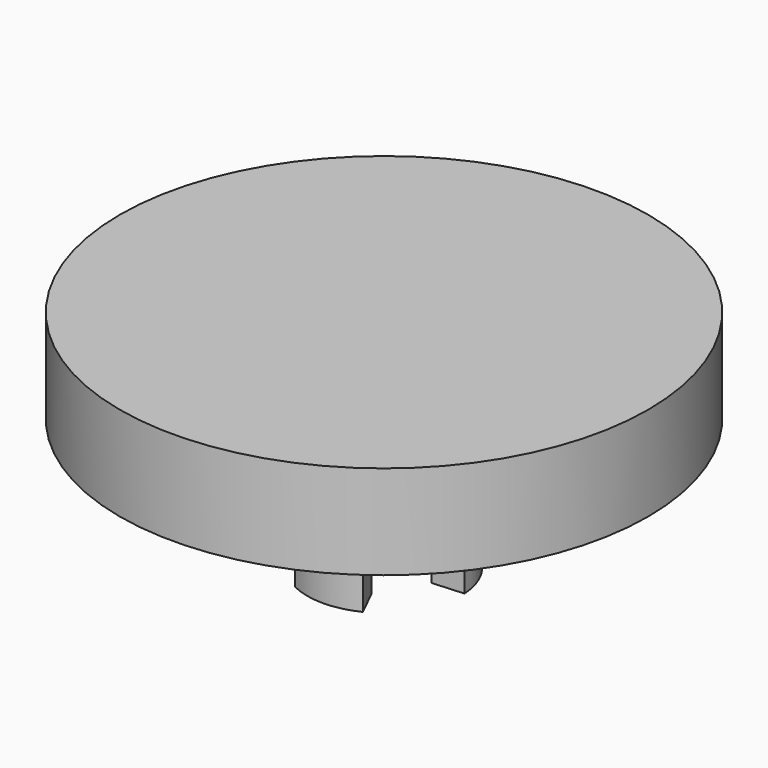
from build123d import *

# Parameters (mm, degrees)
F1_DEPTH = 6.604
F2_R     = 13.335
F3_DEPTH = 4.7498
F4_R     = 2.286
F5_DEPTH = 6.604


with BuildPart() as f1:
    # F0 (on Top) → F1 (new body)
    with BuildSketch(Plane.XY):
        with BuildLine():
            ThreePointArc((-1.712611, -3.474329), (0, -3.8735), (1.712611, -3.474329))
            Line((1.712611, -3.474329), (0.898419, -1.822599))
            ThreePointArc((0.898419, -1.822599), (0, -2.032), (-0.898419, -1.822599))
            Line((-0.898419, -1.822599), (-1.712611, -3.474329))
        make_face()
        with BuildLine():
            Line((-1.129208, 1.689353), (-2.152552, 3.220329))
            ThreePointArc((-2.152552, 3.220329), (-3.354549, 1.93675), (-3.865163, 0.254))
            Line((-3.865163, 0.254), (-2.027627, 0.133246))
            ThreePointArc((-2.027627, 0.133246), (-1.759764, 1.016), (-1.129208, 1.689353))
        make_face()
        with BuildLine():
            Line((2.027627, 0.133246), (3.865163, 0.254))
            ThreePointArc((3.865163, 0.254), (3.354549, 1.93675), (2.152552, 3.220329))
            Line((2.152552, 3.220329), (1.129208, 1.689353))
            ThreePointArc((1.129208, 1.689353), (1.759764, 1.016), (2.027627, 0.133246))
        make_face()
        with BuildLine():
            ThreePointArc((2.027627, -0.133246), (2.030906, -0.066659), (2.032, 0))
            ThreePointArc((2.032, 0), (2.030906, 0.066659), (2.027627, 0.133246))
            ThreePointArc((2.027627, 0.133246), (1.759764, 1.016), (1.129208, 1.689353))
            ThreePointArc((1.129208, 1.689353), (1.016, 1.759764), (0.898419, 1.822599))
            ThreePointArc((0.898419, 1.822599), (0, 2.032), (-0.898419, 1.822599))
            ThreePointArc((-0.898419, 1.822599), (-1.016, 1.759764), (-1.129208, 1.689353))
            ThreePointArc((-1.129208, 1.689353), (-1.759764, 1.016), (-2.027627, 0.133246))
            ThreePointArc((-2.027627, 0.133246), (-2.032, 0), (-2.027627, -0.133246))
            ThreePointArc((-2.027627, -0.133246), (-1.759764, -1.016), (-1.129208, -1.689353))
            ThreePointArc((-1.129208, -1.689353), (-1.016, -1.759764), (-0.898419, -1.822599))
            ThreePointArc((-0.898419, -1.822599), (0, -2.032), (0.898419, -1.822599))
            ThreePointArc((0.898419, -1.822599), (1.016, -1.759764), (1.129208, -1.689353))
            ThreePointArc((1.129208, -1.689353), (1.759764, -1.016), (2.027627, -0.133246))
        make_face()
    extrude(amount=F1_DEPTH)

    # F2 (on face) → F3 (join)
    with BuildSketch(Plane.XY.offset(6.604)):
        Circle(F2_R)
    extrude(amount=F3_DEPTH)

    # F4 (on face) → F5 (cut, through all)
    with BuildSketch(Plane(origin=(0, 0, 0), x_dir=(1, 0, 0), z_dir=(0, 0, -1))):
        Circle(F4_R)
    extrude(amount=-F5_DEPTH, mode=Mode.SUBTRACT)


solid = f1.part
